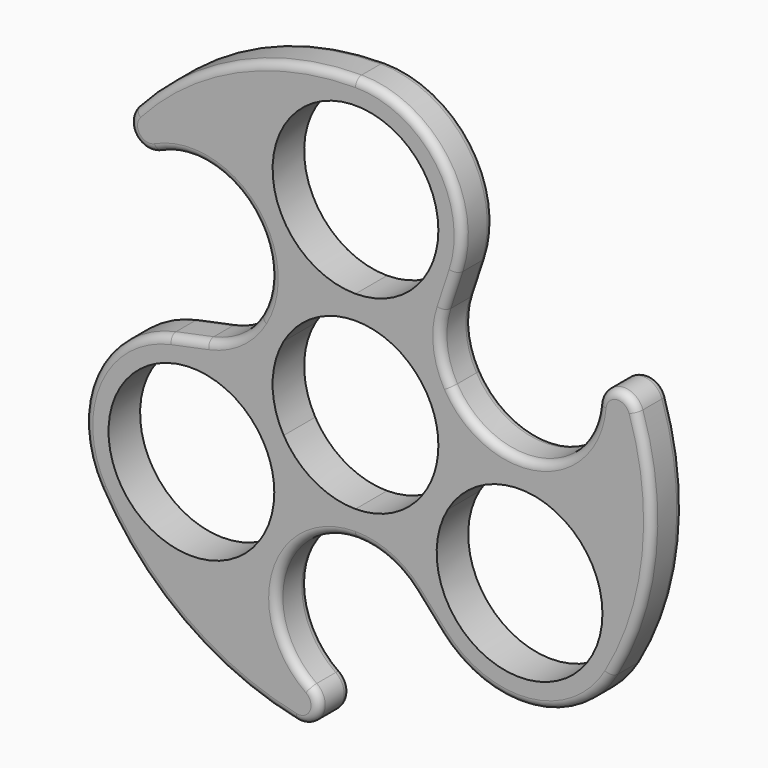
from build123d import *

# Parameters (mm, degrees)
F1_DEPTH = 5
F2_R     = 1


with BuildPart() as f1:
    # F0 (on Front) → F1 (new body)
    with BuildSketch(Plane.XZ):
        with BuildLine():
            ThreePointArc((12.818416, 19.764648), (10.941372, 31.907994), (0, 37.5))
            ThreePointArc((0, 37.5), (-15.325007, 34.225636), (-27.973766, 24.974355))
            ThreePointArc((-27.973766, 24.974355), (-28.112605, 21.814419), (-25.044001, 21.047518))
            ThreePointArc((-25.044001, 21.047518), (-13.424237, 18.76941), (-12.124356, 7))
            Line((-12.124356, 7), (-9.093267, 5.25))
            ThreePointArc((-9.093267, 5.25), (-5.25, 9.093267), (0, 10.5))
            ThreePointArc((0, 10.5), (5.25, 9.093267), (9.093267, 5.25))
            Line((9.093267, 5.25), (12.124356, 7))
            ThreePointArc((12.124356, 7), (10.836829, 10.979379), (11.289487, 15.137298))
            Line((11.289487, 15.137298), (12.818416, 19.764648))
        make_face()
        with BuildLine():
            ThreePointArc((10.5, 24), (7.424621, 16.575379), (0, 13.5))
            ThreePointArc((0, 13.5), (-7.424621, 31.424621), (10.5, 24))
        make_face(mode=Mode.SUBTRACT)
        with BuildLine():
            Line((-9.093267, 5.25), (-12.124356, 7))
            ThreePointArc((-12.124356, 7), (-14.926836, 3.89528), (-18.754028, 2.208333))
            Line((-18.754028, 2.208333), (-23.525896, 1.21875))
            ThreePointArc((-23.525896, 1.21875), (-33.10382, -6.478491), (-32.475953, -18.75))
            ThreePointArc((-32.475953, -18.75), (-21.977767, -30.384664), (-7.641543, -36.71317))
            ThreePointArc((-7.641543, -36.71317), (-4.835539, -35.25344), (-5.705685, -32.2125))
            ThreePointArc((-5.705685, -32.2125), (-9.542667, -21.010435), (0, -14))
            Line((0, -14), (0, -10.5))
            ThreePointArc((0, -10.5), (-5.25, -9.093267), (-9.093267, -5.25))
            ThreePointArc((-9.093267, -5.25), (-10.5, 0), (-9.093267, 5.25))
        make_face()
        with BuildLine():
            ThreePointArc((-10.28461, -12), (-30.926831, -14.7176), (-11.691343, -6.75))
            ThreePointArc((-11.691343, -6.75), (-10.642389, -9.2824), (-10.28461, -12))
        make_face(mode=Mode.SUBTRACT)
        with BuildLine():
            ThreePointArc((30.749686, 11.164982), (22.966904, 2.241025), (12.124356, 7))
            Line((12.124356, 7), (9.093267, 5.25))
            ThreePointArc((9.093267, 5.25), (10.142221, 2.7176), (10.5, 0))
            ThreePointArc((10.5, 0), (10.142221, -2.7176), (9.093267, -5.25))
            ThreePointArc((9.093267, -5.25), (5.25, -9.093267), (0, -10.5))
            Line((0, -10.5), (0, -14))
            ThreePointArc((0, -14), (4.090007, -14.874659), (7.464541, -17.345631))
            Line((7.464541, -17.345631), (10.707479, -20.983398))
            ThreePointArc((10.707479, -20.983398), (22.162448, -25.429503), (32.475953, -18.75))
            ThreePointArc((32.475953, -18.75), (37.302774, -3.840972), (35.615309, 11.738815))
            ThreePointArc((35.615309, 11.738815), (32.948144, 13.43902), (30.749686, 11.164982))
        make_face()
        with BuildLine():
            ThreePointArc((31.28461, -12), (18.06701, -22.142221), (11.691343, -6.75))
            ThreePointArc((11.691343, -6.75), (23.50221, -1.857779), (31.28461, -12))
        make_face(mode=Mode.SUBTRACT)
    extrude(amount=F1_DEPTH)

    # F2
    f2_edges = [f1.edges().sort_by_distance(p)[0] for p in [
        (-15.325007, -5, 34.225636),
        (18.7846, 0, 2.202043),
    ]]
    fillet(f2_edges, radius=F2_R)


solid = f1.part
